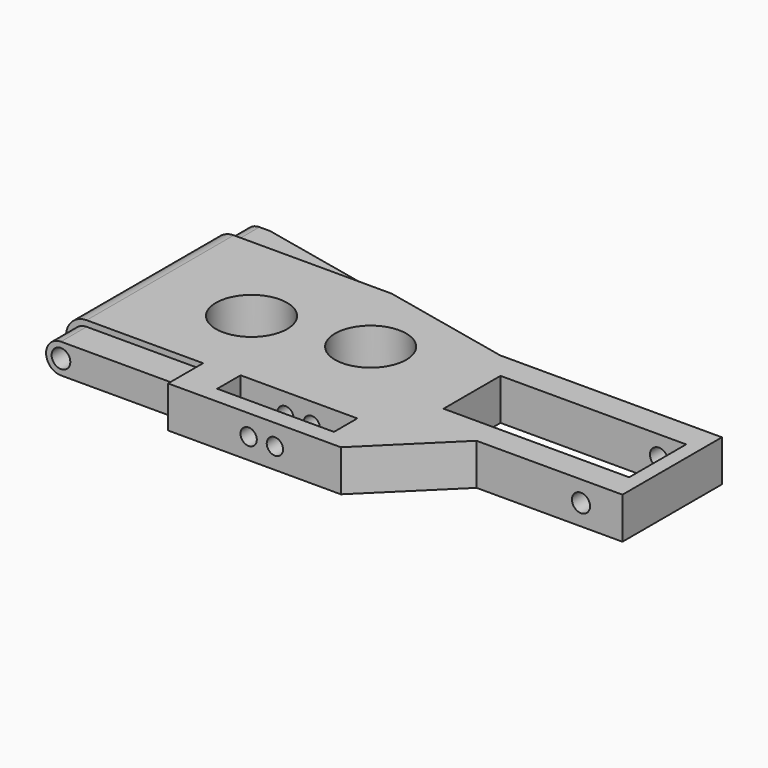
from build123d import *

# Parameters (mm, degrees)
SKETCH_W        = 91.1
SKETCH_H        = 44.5
PAD_DEPTH       = 3.55
SKETCH001_R     = 6.1
SKETCH001_W     = 31.8
SKETCH001_H     = 12.2
SKETCH001_W_2   = 23.5
SKETCH001_H_2   = 2
SKETCH001_W_3   = 20
SKETCH001_H_3   = 5
POCKET_DEPTH    = 7.101
SKETCH002_R     = 1.6
SKETCH002_R_2   = 1.55
POCKET001_DEPTH = 42.501
POCKET002_DEPTH = 5.5
POCKET003_DEPTH = 5.5
SKETCH006_R     = 1.4
POCKET004_DEPTH = 15


with BuildPart() as part:
    # Sketch → Pad (new body, symmetric)
    with BuildSketch(Plane.XY):
        with Locations((45.55, 0)):
            Rectangle(SKETCH_W, SKETCH_H)
    extrude(amount=PAD_DEPTH, both=True)

    # Sketch001 → Pocket (cut, through all)
    with BuildSketch(Plane.XY.offset(3.55)):
        with Locations((38, 3)):
            Circle(SKETCH001_R)
        with Locations((20, 0)):
            Circle(SKETCH001_R)
        Polygon((91.1, 22.25), (91.1, 11.85), (53.1, 11.85), (5.4, 22.25), align=None)
        Polygon((91.1, -22.25), (91.1, -9.45), (66.1, -9.45), (53.1, -22.25), align=None)
        with Locations((72.75, 1.15)):
            Rectangle(SKETCH001_W, SKETCH001_H)
        with Locations((11.75, -21.25)):
            Rectangle(SKETCH001_W_2, SKETCH001_H_2)
        with Locations((39.6, -16.85)):
            Rectangle(SKETCH001_W_3, SKETCH001_H_3)
    extrude(amount=-POCKET_DEPTH, mode=Mode.SUBTRACT)

    # Sketch002 → Pocket001 (cut, through all)
    with BuildSketch(Plane.XZ.offset(20.25)):
        with Locations((3.55, 0)):
            Circle(SKETCH002_R)
        with Locations((84, 0)):
            Circle(SKETCH002_R_2)
        with BuildLine():
            Line((-1.450012, 3.55), (3.549988, 3.55))
            ThreePointArc((3.549988, 3.55), (0, 0), (3.549988, -3.55))
            Line((3.549988, -3.55), (-1.450012, -3.55))
            Line((-1.450012, -3.55), (-1.450012, 3.55))
        make_face()
    extrude(amount=-POCKET001_DEPTH, mode=Mode.SUBTRACT)

    # Sketch004 → Pocket002 (cut)
    with BuildSketch(Plane.XZ.offset(20.25)):
        with BuildLine():
            Line((0, 3.55), (23.5, 3.55))
            Line((23.5, 3.55), (23.5, 2.55))
            Line((23.5, 2.55), (3.55, 2.55))
            ThreePointArc((3.55, 2.55), (1, 0), (3.55, -2.55))
            Line((3.55, -2.55), (23.5, -2.55))
            Line((23.5, -2.55), (23.5, -3.55))
            Line((23.5, -3.55), (0, -3.55))
            Line((0, -3.55), (0, 3.55))
        make_face()
    extrude(amount=-POCKET002_DEPTH, mode=Mode.SUBTRACT)

    # Sketch005 → Pocket003 (cut)
    with BuildSketch(Plane(origin=(0, 22.25, 0), x_dir=(-1, 0, 0), z_dir=(0, 1, 0))):
        with BuildLine():
            Line((-53.1, 3.55), (0, 3.55))
            Line((0, 3.55), (0, -3.55))
            Line((0, -3.55), (-53.1, -3.55))
            Line((-53.1, -2.55), (-53.1, -3.55))
            Line((-3.55, -2.55), (-53.1, -2.55))
            ThreePointArc((-3.55, -2.55), (-1, 0), (-3.55, 2.55))
            Line((-53.1, 2.55), (-3.55, 2.55))
            Line((-53.1, 3.55), (-53.1, 2.55))
        make_face()
    extrude(amount=-POCKET003_DEPTH, mode=Mode.SUBTRACT)

    # Sketch006 → Pocket004 (cut)
    with BuildSketch(Plane.XZ.offset(22.25)):
        with Locations((37.3, 0)):
            Circle(SKETCH006_R)
        with Locations((41.8, 0)):
            Circle(SKETCH006_R)
    extrude(amount=-POCKET004_DEPTH, mode=Mode.SUBTRACT)


solid = part.part
